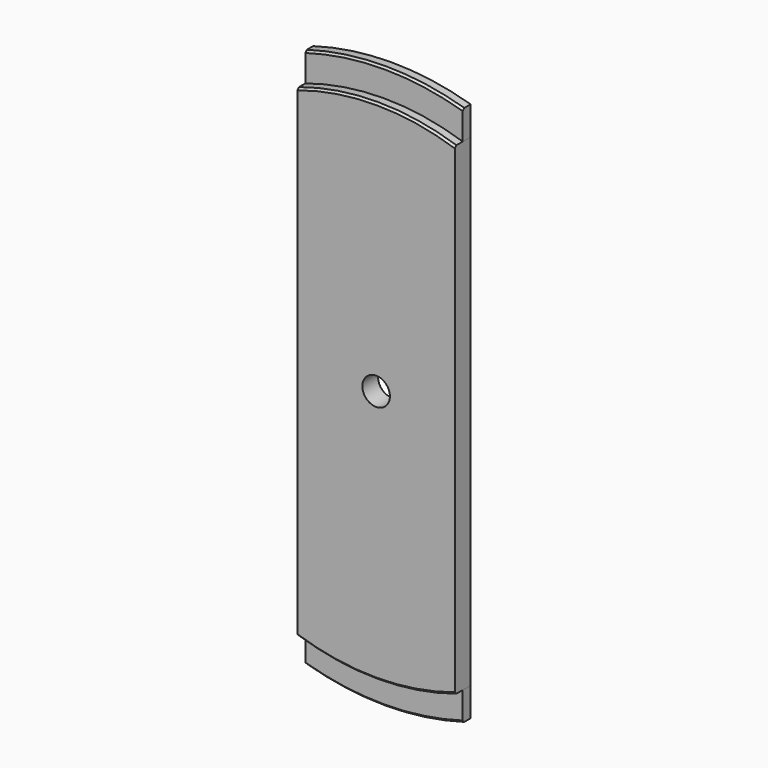
from build123d import *

# Parameters (mm, degrees)
F1_DEPTH  = 5
F0_R      = 7
F2_DEPTH  = 10
F3_SIZE   = 1
F3_2_SIZE = 1
F3_3_SIZE = 1


with BuildPart() as f1:
    # F0 (on Front) → F1 (new body)
    with BuildSketch(Plane.XZ):
        with BuildLine():
            ThreePointArc((-40, -137.291660344), (0, -143), (40, -137.291660344))
            Line((40, -137.291660344), (40, -122.6417547167))
            ThreePointArc((40, -122.6417547167), (0, -129), (-40, -122.6417547167))
            Line((-40, -122.6417547167), (-40, -137.291660344))
        make_face()
    extrude(amount=F1_DEPTH)

    # F3
    f3_edges = [f1.edges().sort_by_distance(p)[0] for p in [
        (0, -5, -143),
    ]]
    chamfer(f3_edges, length=F3_SIZE)


with BuildPart() as f1b:
    # F0 (on Front) → F1, piece 2 (new body)
    with BuildSketch(Plane.XZ):
        with BuildLine():
            Line((40, 122.6417547167), (40, 137.291660344))
            ThreePointArc((40, 137.291660344), (0, 143), (-40, 137.291660344))
            Line((-40, 137.291660344), (-40, 122.6417547167))
            ThreePointArc((-40, 122.6417547167), (0, 129), (40, 122.6417547167))
        make_face()
    extrude(amount=F1_DEPTH)

    # F3#3
    f3_3_edges = [f1b.edges().sort_by_distance(p)[0] for p in [
        (0, -5, 143),
    ]]
    chamfer(f3_3_edges, length=F3_3_SIZE)


with BuildPart() as f2:
    # F0 (on Front) → F2 (new body)
    with BuildSketch(Plane.XZ):
        with BuildLine():
            Line((40, -122.6417547167), (40, 122.6417547167))
            ThreePointArc((40, 122.6417547167), (0, 129), (-40, 122.6417547167))
            Line((-40, 122.6417547167), (-40, -122.6417547167))
            ThreePointArc((-40, -122.6417547167), (0, -129), (40, -122.6417547167))
        make_face()
        Circle(F0_R, mode=Mode.SUBTRACT)
    extrude(amount=F2_DEPTH)

    # F3#2
    f3_2_edges = [f2.edges().sort_by_distance(p)[0] for p in [
        (0, -10, -129),
        (0, -10, 129),
    ]]
    chamfer(f3_2_edges, length=F3_2_SIZE)


solid = Compound([f1.part, f1b.part, f2.part])
